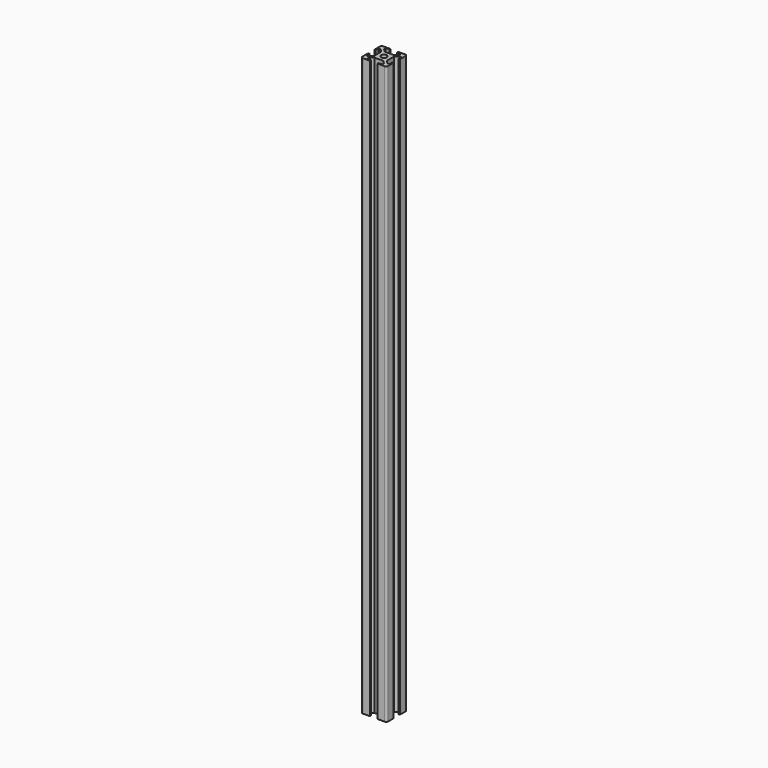
from build123d import *

# Parameters (mm, degrees)
SKETCH_R  = 2.25
PAD_DEPTH = 450
FILLET_R  = 1.5


with BuildPart() as part:
    # Sketch → Pad (new body)
    with BuildSketch(Plane(origin=(0, 0, 0), x_dir=(1, 0, 0), z_dir=(0, 0, -1))):
        Polygon((7, 0), (7, -1), (4, -1), (4, -2.5), (6.499998, -5), (13.500002, -5), (16, -2.5), (16, -1), (13, -1), (13, 0), (20, 0), (20, -7), (19, -7), (19, -4), (17.5, -4), (15.000002, -6.5), (15.000002, -13.500005), (17.5, -16.000005), (19, -16.000005), (19, -13.000005), (20, -13.000005), (20, -20.000005), (13, -20.000005), (13, -19.000005), (16, -19.000005), (16, -17.500005), (13.500002, -15.000005), (6.499998, -15.000005), (4, -17.500005), (4, -19.000005), (7, -19.000005), (7, -20.000005), (0, -20.000005), (0, -13.000005), (1, -13.000005), (1, -16.000005), (2.5, -16.000005), (4.999998, -13.500005), (4.999998, -6.5), (2.5, -4), (1, -4), (1, -7), (0, -7), (0, 0), align=None)
        with Locations((10, -10.000002)):
            Circle(SKETCH_R, mode=Mode.SUBTRACT)
    extrude(amount=PAD_DEPTH)

    # Fillet
    fillet_edges = [part.edges().sort_by_distance(p)[0] for p in [
        (20, 20.000005, -225),
        (20, 0, -225),
        (0, 20.000005, -225),
        (0, 0, -225),
    ]]
    fillet(fillet_edges, radius=FILLET_R)


solid = part.part
